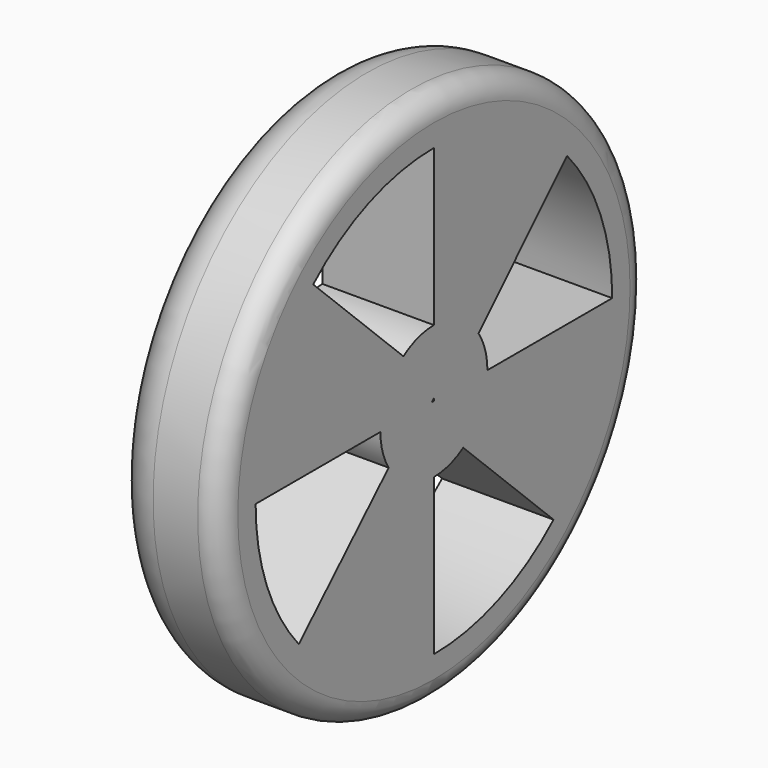
from build123d import *

# Parameters (mm, degrees)
F0_R     = 60
F0_R_2   = 55
F1_DEPTH = 25
F2_R     = 5
F3_R     = 10
F4_DEPTH = 25
F5_DEPTH = 25


with BuildPart() as f1:
    # F0 (on Right) → F1 (new body)
    with BuildSketch(Plane.YZ):
        Circle(F0_R)
        Circle(F0_R_2, mode=Mode.SUBTRACT)
        Circle(F0_R_2)
        with BuildLine():
            ThreePointArc((37.3300225605, 33.2636350333), (46.7252668694, 17.7974558852), (50, 0))
            ThreePointArc((50, 0), (46.3547535543, -18.7413132657), (35.9505270831, -34.7499583085))
            ThreePointArc((35.9505270831, -34.7499583085), (34.7719029265, -35.9293023432), (33.5546123129, -37.0686928894))
            ThreePointArc((33.5546123129, -37.0686928894), (17.9800633415, -46.6553032595), (0, -50))
            ThreePointArc((0, -50), (-19.2409733878, -46.1495930978), (-35.5185237062, -35.1913977235))
            ThreePointArc((-35.5185237062, -35.1913977235), (-36.7306636988, -33.9243031505), (-37.8976277369, -32.6154842355))
            ThreePointArc((-37.8976277369, -32.6154842355), (-46.8768673593, -17.3942319916), (-50, 0))
            ThreePointArc((-50, 0), (-46.3446390349, 18.7663111114), (-35.9130226909, 34.7887165789))
            ThreePointArc((-35.9130226909, 34.7887165789), (-34.8991240146, 35.8057417605), (-33.8564359237, 36.7932296292))
            ThreePointArc((-33.8564359237, 36.7932296292), (-18.1705602354, 46.5814420207), (0, 50))
            ThreePointArc((0, 50), (1.5278005192, 49.9766528048), (3.054174244, 49.9066330229))
            ThreePointArc((3.054174244, 49.9066330229), (20.2598113498, 45.7114870035), (34.923788683, 35.7816850362))
            ThreePointArc((34.923788683, 35.7816850362), (36.148837516, 34.5436180248), (37.3300225605, 33.2636350333))
        make_face(mode=Mode.SUBTRACT)
        with BuildLine():
            ThreePointArc((-35.5185237062, -35.1913977235), (-19.2409733878, -46.1495930978), (0, -50))
            Line((0, -50), (0, -15))
            ThreePointArc((0, -15), (-5.9073859905, -13.7877768607), (-10.8599626488, -10.347038768))
            Line((-10.8599626488, -10.347038768), (-35.5185237062, -35.1913977235))
        make_face()
        with BuildLine():
            Line((-10.7607644181, 10.4501650292), (-35.9130226909, 34.7887165789))
            ThreePointArc((-35.9130226909, 34.7887165789), (-46.3446390349, 18.7663111114), (-50, 0))
            Line((-50, 0), (-15, 0))
            ThreePointArc((-15, 0), (-13.8998465148, 5.6386405156), (-10.7607644181, 10.4501650292))
        make_face()
        with BuildLine():
            ThreePointArc((35.9505270831, -34.7499583085), (46.3547535543, -18.7413132657), (50, 0))
            Line((50, 0), (15, 0))
            ThreePointArc((15, 0), (13.909961038, -5.6136426607), (10.7982688104, -10.4114067589))
            Line((10.7982688104, -10.4114067589), (35.9505270831, -34.7499583085))
        make_face()
        with BuildLine():
            Line((0, 15), (0, 50))
            ThreePointArc((0, 50), (-18.1705602354, 46.5814420207), (-33.8564359237, 36.7932296292))
            Line((-33.8564359237, 36.7932296292), (-8.5615410762, 12.3166559748))
            ThreePointArc((-8.5615410762, 12.3166559748), (-4.4860985488, 14.3134524071), (0, 15))
        make_face()
        with BuildLine():
            ThreePointArc((0, -50), (17.9800633415, -46.6553032595), (33.5546123129, -37.0686928894))
            Line((33.5546123129, -37.0686928894), (8.2159867451, -12.5498032576))
            ThreePointArc((8.2159867451, -12.5498032576), (4.2867791601, -14.3744051853), (0, -15))
            Line((0, -15), (0, -50))
        make_face()
        with BuildLine():
            Line((15, 0), (50, 0))
            ThreePointArc((50, 0), (46.7252668694, 17.7974558852), (37.3300225605, 33.2636350333))
            Line((37.3300225605, 33.2636350333), (12.5178824574, 8.264539841))
            ThreePointArc((12.5178824574, 8.264539841), (14.3660752619, 4.3146125631), (15, 0))
        make_face()
        with BuildLine():
            ThreePointArc((-50, 0), (-46.8768673593, -17.3942319916), (-37.8976277369, -32.6154842355))
            Line((-37.8976277369, -32.6154842355), (-12.6869769146, -8.0025381453))
            ThreePointArc((-12.6869769146, -8.0025381453), (-14.4101466634, -4.165053798), (-15, 0))
            Line((-15, 0), (-50, 0))
        make_face()
        with BuildLine():
            Line((10.2652276257, 10.9373260806), (34.923788683, 35.7816850362))
            ThreePointArc((34.923788683, 35.7816850362), (20.2598113498, 45.7114870035), (3.054174244, 49.9066330229))
            Line((3.054174244, 49.9066330229), (3.054174244, 14.6857761009))
            ThreePointArc((3.054174244, 14.6857761009), (6.9184055916, 13.309232287), (10.2652276257, 10.9373260806))
        make_face()
        with BuildLine():
            Line((12.5178824574, 8.264539841), (37.3300225605, 33.2636350333))
            ThreePointArc((37.3300225605, 33.2636350333), (36.148837516, 34.5436180248), (34.923788683, 35.7816850362))
            Line((34.923788683, 35.7816850362), (10.2652276257, 10.9373260806))
            ThreePointArc((10.2652276257, 10.9373260806), (11.4696762306, 9.666774393), (12.5178824574, 8.264539841))
        make_face()
        with BuildLine():
            ThreePointArc((33.5546123129, -37.0686928894), (34.7719029265, -35.9293023432), (35.9505270831, -34.7499583085))
            Line((35.9505270831, -34.7499583085), (10.7982688104, -10.4114067589))
            ThreePointArc((10.7982688104, -10.4114067589), (9.5670613815, -11.5529795517), (8.2159867451, -12.5498032576))
            Line((8.2159867451, -12.5498032576), (33.5546123129, -37.0686928894))
        make_face()
        with BuildLine():
            ThreePointArc((-37.8976277369, -32.6154842355), (-36.7306636988, -33.9243031505), (-35.5185237062, -35.1913977235))
            Line((-35.5185237062, -35.1913977235), (-10.8599626488, -10.347038768))
            ThreePointArc((-10.8599626488, -10.347038768), (-11.8316846431, -9.2201539307), (-12.6869769146, -8.0025381453))
            Line((-12.6869769146, -8.0025381453), (-37.8976277369, -32.6154842355))
        make_face()
        with BuildLine():
            Line((3.054174244, 14.6857761009), (3.054174244, 49.9066330229))
            ThreePointArc((3.054174244, 49.9066330229), (1.5278005192, 49.9766528048), (0, 50))
            Line((0, 50), (0, 15))
            ThreePointArc((0, 15), (1.5351479547, 14.9212372395), (3.054174244, 14.6857761009))
        make_face()
        with BuildLine():
            Line((-8.5615410762, 12.3166559748), (-33.8564359237, 36.7932296292))
            ThreePointArc((-33.8564359237, 36.7932296292), (-34.8991240146, 35.8057417605), (-35.9130226909, 34.7887165789))
            Line((-35.9130226909, 34.7887165789), (-10.7607644181, 10.4501650292))
            ThreePointArc((-10.7607644181, 10.4501650292), (-9.7061227849, 11.4363971811), (-8.5615410762, 12.3166559748))
        make_face()
    extrude(amount=F1_DEPTH)

    # F2
    f2_edges = [f1.edges().sort_by_distance(p)[0] for p in [
        (25, -60, 0),
    ]]
    fillet(f2_edges, radius=F2_R)

    # F3
    f3_edges = [f1.edges().sort_by_distance(p)[0] for p in [
        (0, -60, 0),
    ]]
    fillet(f3_edges, radius=F3_R)

    # F0 (on Right) → F4 (cut, through all)
    with BuildSketch(Plane.YZ):
        with BuildLine():
            Line((0, 15), (0, 50))
            ThreePointArc((0, 50), (-18.1705602354, 46.5814420207), (-33.8564359237, 36.7932296292))
            Line((-33.8564359237, 36.7932296292), (-8.5615410762, 12.3166559748))
            ThreePointArc((-8.5615410762, 12.3166559748), (-4.4860985488, 14.3134524071), (0, 15))
        make_face()
        with BuildLine():
            ThreePointArc((-50, 0), (-46.8768673593, -17.3942319916), (-37.8976277369, -32.6154842355))
            Line((-37.8976277369, -32.6154842355), (-12.6869769146, -8.0025381453))
            ThreePointArc((-12.6869769146, -8.0025381453), (-14.4101466634, -4.165053798), (-15, 0))
            Line((-15, 0), (-50, 0))
        make_face()
        with BuildLine():
            ThreePointArc((0, -50), (17.9800633415, -46.6553032595), (33.5546123129, -37.0686928894))
            Line((33.5546123129, -37.0686928894), (8.2159867451, -12.5498032576))
            ThreePointArc((8.2159867451, -12.5498032576), (4.2867791601, -14.3744051853), (0, -15))
            Line((0, -15), (0, -50))
        make_face()
        with BuildLine():
            Line((15, 0), (50, 0))
            ThreePointArc((50, 0), (46.7252668694, 17.7974558852), (37.3300225605, 33.2636350333))
            Line((37.3300225605, 33.2636350333), (12.5178824574, 8.264539841))
            ThreePointArc((12.5178824574, 8.264539841), (14.3660752619, 4.3146125631), (15, 0))
        make_face()
    extrude(amount=F4_DEPTH, mode=Mode.SUBTRACT)

    # F0 (on Right) → F5 (join)
    with BuildSketch(Plane.YZ):
        with BuildLine():
            ThreePointArc((10.7982688104, -10.4114067589), (13.909961038, -5.6136426607), (15, 0))
            ThreePointArc((15, 0), (14.3660752619, 4.3146125631), (12.5178824574, 8.264539841))
            ThreePointArc((12.5178824574, 8.264539841), (11.4696762306, 9.666774393), (10.2652276257, 10.9373260806))
            ThreePointArc((10.2652276257, 10.9373260806), (6.9184055916, 13.309232287), (3.054174244, 14.6857761009))
            ThreePointArc((3.054174244, 14.6857761009), (1.5351479547, 14.9212372395), (0, 15))
            ThreePointArc((0, 15), (-4.4860985488, 14.3134524071), (-8.5615410762, 12.3166559748))
            ThreePointArc((-8.5615410762, 12.3166559748), (-9.7061227849, 11.4363971811), (-10.7607644181, 10.4501650292))
            ThreePointArc((-10.7607644181, 10.4501650292), (-13.8998465148, 5.6386405156), (-15, 0))
            ThreePointArc((-15, 0), (-14.4101466634, -4.165053798), (-12.6869769146, -8.0025381453))
            ThreePointArc((-12.6869769146, -8.0025381453), (-11.8316846431, -9.2201539307), (-10.8599626488, -10.347038768))
            ThreePointArc((-10.8599626488, -10.347038768), (-5.9073859905, -13.7877768607), (0, -15))
            ThreePointArc((0, -15), (4.2867791601, -14.3744051853), (8.2159867451, -12.5498032576))
            ThreePointArc((8.2159867451, -12.5498032576), (9.5670613815, -11.5529795517), (10.7982688104, -10.4114067589))
        make_face()
        Polygon((-0.2821140827, 0.3105120171), (0, 0.5947517795), (0, 0.0375246745), (0.0387792307, 0), (0, 0), (-0.5903039437, 0), align=None, mode=Mode.SUBTRACT)
    extrude(amount=F5_DEPTH)


solid = f1.part
